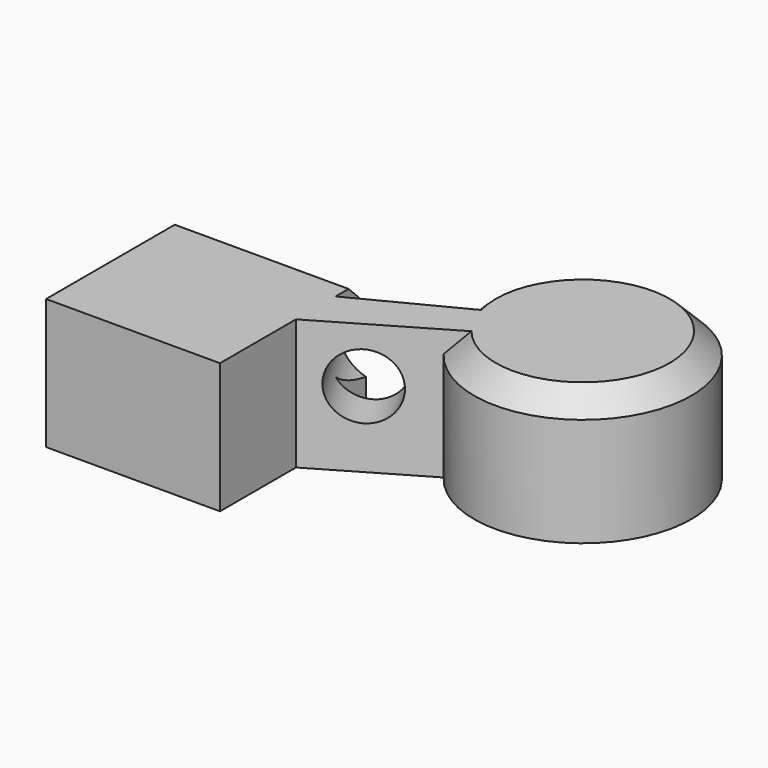
from build123d import *

# Parameters (mm, degrees)
F1_DEPTH = 30
F2_R     = 7.5
F3_DEPTH = 66.5296831478
F4_SIZE  = 5


with BuildPart() as f1:
    # F0 (on Top) → F1 (new body)
    with BuildSketch(Plane.XY):
        with BuildLine():
            Line((-6.9337203167, 2.2713398635), (-46.9337203167, 2.2713398635))
            Line((-46.9337203167, 2.2713398635), (-46.9337203167, -39.7286601365))
            Line((-46.9337203167, -39.7286601365), (-6.9337203167, -39.7286601365))
            Line((-6.9337203167, -39.7286601365), (-6.9337203167, -17.885550487))
            Line((-6.9337203167, -17.885550487), (16.2017301439, -4.3453868678))
            ThreePointArc((16.2017301439, -4.3453868678), (58.3330589287, 22.2213546523), (12.2138993907, 3.4100882496))
            Line((12.2138993907, 3.4100882496), (-6.9337203167, -6.4725532874))
            Line((-6.9337203167, -6.4725532874), (-6.9337203167, 2.2713398635))
        make_face()
    extrude(amount=F1_DEPTH)

    # F2 (on face) → F3 (cut, through all)
    with BuildSketch(Plane(origin=(6.027939026, -10.2996602284, 0), x_dir=(0.8630557619, 0.5051086534, 0), z_dir=(0.5051086534, -0.8630557619, 0))):
        with Locations((-2.7203583159, 17.3664018512)):
            Circle(F2_R)
    extrude(amount=-F3_DEPTH, mode=Mode.SUBTRACT)

    # F4
    f4_edges = [f1.edges().sort_by_distance(p)[0] for p in [
        (58.333059, 22.221355, 30),
        (-26.93372, 2.27134, 30),
    ]]
    chamfer(f4_edges, length=F4_SIZE)


solid = f1.part
